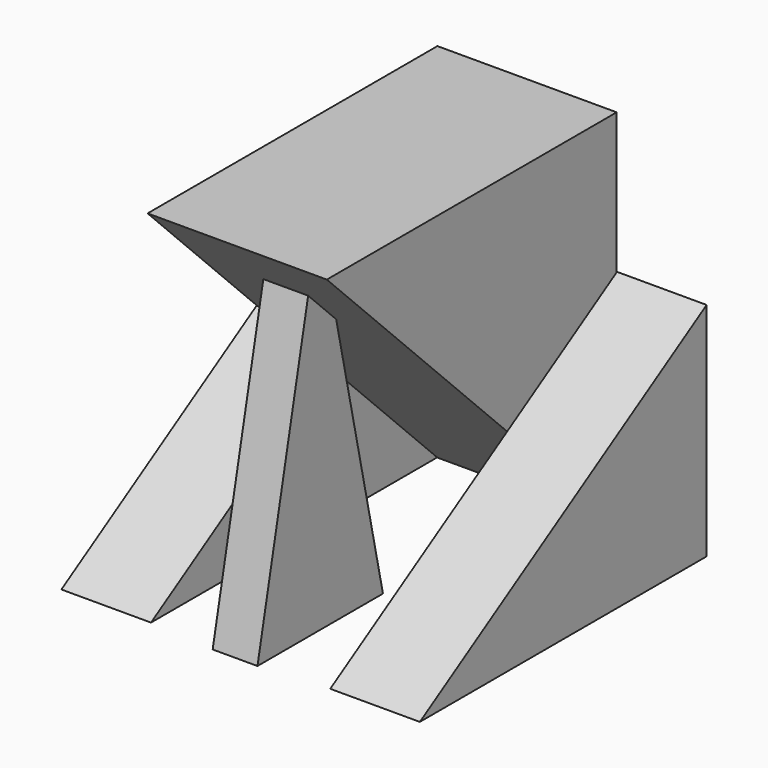
from build123d import *

# Parameters (mm, degrees)
F1_DEPTH = 25.4
F3_DEPTH = 6.35
F5_START = 25.4
F5_DEPTH = 25.4
F6_START = -25.4
F6_DEPTH = 25.4


with BuildPart() as f1:
    # F0 (on Right) → F1 (new body, symmetric)
    with BuildSketch(Plane.YZ):
        Polygon((51.2476228178, 51.5168197453), (0, 51.5168197453), (-51.4305755496, 51.5168197453), (51.2476228178, -51.1613786221), align=None)
    extrude(amount=F1_DEPTH, both=True)

    # F2 (on Right) → F3 (join, symmetric)
    with BuildSketch(Plane.YZ):
        Polygon((-7.7362581372, -50.7985763252), (-26.7862581372, 35.6628969312), (-33.1362581372, 39.5409651101), (-52.1862581372, -50.7985763252), align=None)
    extrude(amount=F3_DEPTH, both=True)

    # F4 (on Right) → F6 (join)
    with BuildSketch(Plane.YZ.offset(F6_START)):
        Polygon((51.3733252883, -51.0855205357), (51.3733252883, 0), (51.3733252883, 11.660495895), (-50.2221062779, -51.0855205357), align=None)
    extrude(amount=-F6_DEPTH)


with BuildPart() as f5:
    # F4 (on Right) → F5 (new body)
    with BuildSketch(Plane.YZ.offset(F5_START)):
        Polygon((51.3733252883, -51.0855205357), (51.3733252883, 0), (51.3733252883, 11.660495895), (-50.2221062779, -51.0855205357), align=None)
    extrude(amount=F5_DEPTH)


solid = Compound([f1.part, f5.part])
